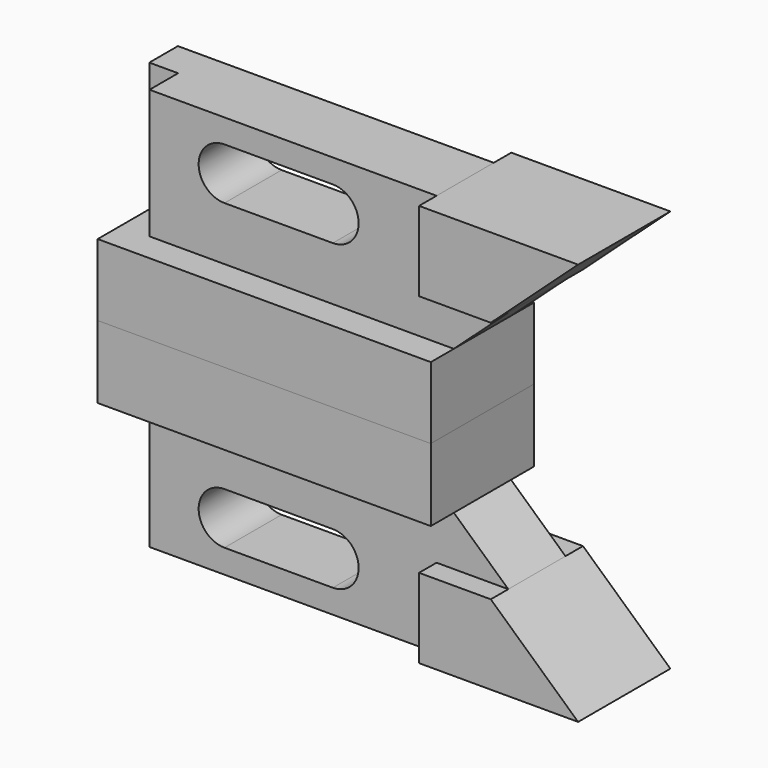
from build123d import *

# Parameters (mm, degrees)
F1_DEPTH = 28.448
F2_DEPTH = 12.7
F3_DEPTH = 7.874
F4_DEPTH = 28.448
F5_DEPTH = 14.224
F6_DEPTH = 7.874


with BuildPart() as f1:
    # F0 (on Front) → F1 (new body)
    with BuildSketch(Plane.XZ):
        Polygon((5.0182457385, 15.9014282599), (-62.0377542615, 15.9014282599), (-68.3877542615, 15.9014282599), (-68.3877542615, -0.1005717401), (5.0182457385, -0.1005717401), align=None)
    extrude(amount=F1_DEPTH)

    # F4 (cut): a face of the model
    f4_faces = [f1.faces().sort_by_distance(p)[0] for p in [
        (-31.6847542615, -28.448, 7.9004282599),
    ]]
    extrude(f4_faces, amount=-F4_DEPTH, mode=Mode.SUBTRACT)


with BuildPart() as f2:
    # F0 (on Front) → F2 (new body, symmetric)
    with BuildSketch(Plane.XZ):
        Polygon((36.2602457385, 44.3494282599), (1.2082457385, 44.3494282599), (1.2082457385, 26.8234282599), (17.0129421671, 26.8234282599), align=None)
    extrude(amount=F2_DEPTH, both=True)


with BuildPart() as f3:
    # F0 (on Front) → F3 (new body, symmetric)
    with BuildSketch(Plane.XZ):
        Polygon((1.2082457385, 44.3494282599), (-62.0377542615, 44.3494282599), (-62.0377542615, 15.9014282599), (5.0182457385, 15.9014282599), (17.0129421671, 26.8234282599), (1.2082457385, 26.8234282599), align=None)
        with BuildLine():
            ThreePointArc((-21.6517542615, 39.1172810912), (-15.9619014302, 33.4274282599), (-21.6517542615, 27.7375754286))
            Line((-21.6517542615, 27.7375754286), (-45.5277542615, 27.7375754286))
            ThreePointArc((-45.5277542615, 27.7375754286), (-51.2176070928, 33.4274282599), (-45.5277542615, 39.1172810912))
            Line((-45.5277542615, 39.1172810912), (-21.6517542615, 39.1172810912))
        make_face(mode=Mode.SUBTRACT)
    extrude(amount=F3_DEPTH, both=True)

    # F0 (on Front) → F5 (join, symmetric)
    with BuildSketch(Plane.XZ):
        Polygon((5.0182457385, 15.9014282599), (-62.0377542615, 15.9014282599), (-68.3877542615, 15.9014282599), (-68.3877542615, -0.1005717401), (5.0182457385, -0.1005717401), align=None)
    extrude(amount=F5_DEPTH, both=True)

    # F0 (on Front) → F6 (join)
    with BuildSketch(Plane.XZ):
        Polygon((-62.0377542615, 44.3494282599), (-68.3877542615, 44.3494282599), (-68.3877542615, 33.4274282599), (-68.3877542615, 15.9014282599), (-62.0377542615, 15.9014282599), align=None)
    extrude(amount=-F6_DEPTH)


with BuildPart() as f7_1:
    # F7: instance of F2
    add(f2.part.mirror(Plane.XY))


with BuildPart() as f7_2:
    # F7: instance of F3
    add(f3.part.mirror(Plane.XY))


solid = Compound([f2.part, f3.part, f7_1.part, f7_2.part])
